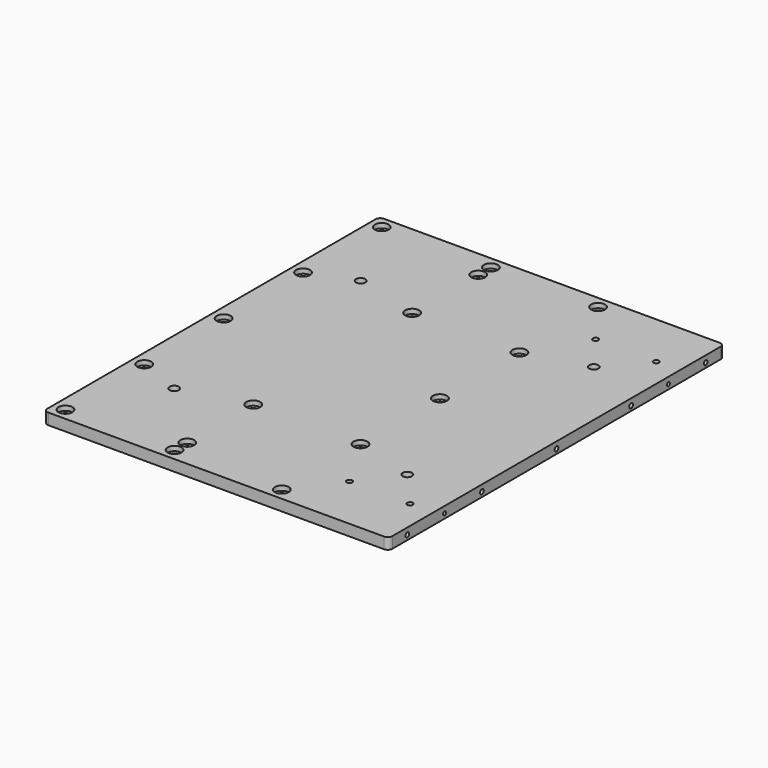
from build123d import *

# Parameters (mm, degrees)
F0_W      = 370
F0_H      = 450
F1_DEPTH  = 12
F2_R      = 3.5
F2_R_2    = 2.871219
F2_R_3    = 3
F3_DEPTH  = 12.001
F4_R      = 5
F5_R      = 7.5
F6_DEPTH  = 5
F7_R      = 2.5
F7_R_2    = 2
F8_DEPTH  = 30
F9_R      = 5
F10_DEPTH = 12.001


with BuildPart() as f1:
    # F0 (on Top) → F1 (new body)
    with BuildSketch(Plane.XY):
        Rectangle(F0_W, F0_H)
    extrude(amount=F1_DEPTH)

    # F2 (on Top) → F3 (cut, through all)
    with BuildSketch(Plane.XY):
        with Locations((-172, 106.5)):
            Circle(F2_R)
        with Locations((-172, 0)):
            Circle(F2_R)
        with Locations((-172, -332.140073)):
            Circle(F2_R_2)
        with Locations((60, 106.5)):
            Circle(F2_R)
        with Locations((60, 0)):
            Circle(F2_R)
        with Locations((60, -212)):
            Circle(F2_R)
        with Locations((60, 212)):
            Circle(F2_R)
        with Locations((-172, 212)):
            Circle(F2_R)
        with Locations((-172, -106.5)):
            Circle(F2_R)
        with Locations((-172, -212)):
            Circle(F2_R)
        with Locations((60, -106.5)):
            Circle(F2_R)
        with Locations((-55, 212)):
            Circle(F2_R)
        with Locations((-55, -212)):
            Circle(F2_R)
        with Locations((-55, -106.5)):
            Circle(F2_R)
        with Locations((-55, 106.5)):
            Circle(F2_R)
        with Locations((160, -165)):
            Circle(F2_R_3)
        with Locations((160, 165)):
            Circle(F2_R_3)
        with Locations((95, -165)):
            Circle(F2_R_3)
        with Locations((95, 165)):
            Circle(F2_R_3)
        with Locations((-55, 195)):
            Circle(F2_R)
        with Locations((-55, -195)):
            Circle(F2_R)
    extrude(amount=F3_DEPTH, mode=Mode.SUBTRACT)

    # F4
    f4_edges = [f1.edges().sort_by_distance(p)[0] for p in [
        (-185, -225, 6),
        (185, -225, 6),
        (185, 225, 6),
        (-185, 225, 6),
    ]]
    fillet(f4_edges, radius=F4_R)

    # F5 (on face) → F6 (cut)
    with BuildSketch(Plane.XY.offset(12)):
        with Locations((-172, 212)):
            Circle(F5_R)
        with Locations((-55, 212)):
            Circle(F5_R)
        with Locations((60, 212)):
            Circle(F5_R)
        with Locations((60, 106.5)):
            Circle(F5_R)
        with Locations((-55, 106.5)):
            Circle(F5_R)
        with Locations((-172, 106.5)):
            Circle(F5_R)
        with Locations((-172, 0)):
            Circle(F5_R)
        with Locations((60, 0)):
            Circle(F5_R)
        with Locations((-172, -106.5)):
            Circle(F5_R)
        with Locations((-55, -106.5)):
            Circle(F5_R)
        with Locations((60, -106.5)):
            Circle(F5_R)
        with Locations((60, -212)):
            Circle(F5_R)
        with Locations((-55, -212)):
            Circle(F5_R)
        with Locations((-172, -212)):
            Circle(F5_R)
        with Locations((-55, 195)):
            Circle(F5_R)
        with Locations((-55, -195)):
            Circle(F5_R)
    extrude(amount=-F6_DEPTH, mode=Mode.SUBTRACT)

    # F7 (on face) → F8 (cut)
    with BuildSketch(Plane.YZ.offset(185)):
        with Locations((100, 5)):
            Circle(F7_R)
        with Locations((200, 5)):
            Circle(F7_R)
        with Locations((-200, 5)):
            Circle(F7_R)
        with Locations((-100, 5)):
            Circle(F7_R)
        with Locations((0, 5)):
            Circle(F7_R)
        with Locations((150, 5)):
            Circle(F7_R_2)
        with Locations((-150, 5)):
            Circle(F7_R_2)
    extrude(amount=-F8_DEPTH, mode=Mode.SUBTRACT)

    # F9 (on Top) → F10 (cut, through all)
    with BuildSketch(Plane.XY):
        with Locations((-125, 125)):
            Circle(F9_R)
        with Locations((125, 125)):
            Circle(F9_R)
        with Locations((-125, -125)):
            Circle(F9_R)
        with Locations((125, -125)):
            Circle(F9_R)
    extrude(amount=F10_DEPTH, mode=Mode.SUBTRACT)


solid = f1.part
